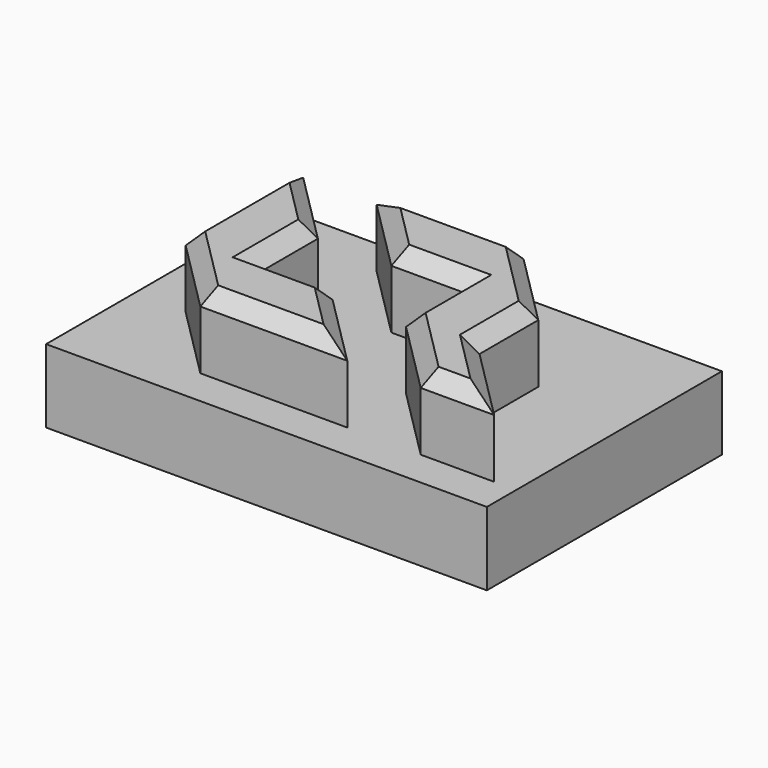
from build123d import *

# Parameters (mm, degrees)
F0_W     = 76.2
F0_H     = 50.8
F1_DEPTH = 25.4
F2_W     = 76.2
F2_H     = 50.8
F3_DEPTH = 12.7
F5_DEPTH = 12.7
F6_SIZE  = 2.54


with BuildPart() as f1:
    # F0 (on Top) → F1 (new body)
    with BuildSketch(Plane.XY):
        with Locations((38.1, 25.4)):
            Rectangle(F0_W, F0_H)
    extrude(amount=F1_DEPTH)

    # F2 (on face) → F3 (cut)
    with BuildSketch(Plane.XY.offset(25.4)):
        with Locations((38.1, 25.4)):
            Rectangle(F2_W, F2_H)
    extrude(amount=-F3_DEPTH, mode=Mode.SUBTRACT)

    # F4 (on face) → F5 (join)
    with BuildSketch(Plane.XY.offset(12.7)):
        Polygon((21.59, 31.75), (8.89, 44.45), (8.89, 31.75), (8.89, 19.05), (21.59, 6.35), (34.29, 6.35), (46.99, 6.35), (34.29, 19.05), (21.59, 19.05), align=None)
        Polygon((46.99, 19.05), (59.69, 6.35), (72.39, 6.35), (59.69, 19.05), (59.69, 31.75), (46.99, 44.45), (34.29, 44.45), (21.59, 44.45), (34.29, 31.75), (46.99, 31.75), align=None)
    extrude(amount=F5_DEPTH)

    # F6
    f6_edges = [f1.edges().sort_by_distance(p)[0] for p in [
        (15.24, 12.7, 25.4),
        (8.89, 31.75, 25.4),
        (15.24, 38.1, 25.4),
        (21.59, 25.4, 25.4),
        (27.94, 19.05, 25.4),
        (40.64, 12.7, 25.4),
        (34.29, 6.35, 25.4),
        (53.34, 12.7, 25.4),
        (66.04, 12.7, 25.4),
        (66.04, 6.35, 25.4),
        (46.99, 25.4, 25.4),
        (53.34, 38.1, 25.4),
        (27.94, 38.1, 25.4),
        (34.29, 44.45, 25.4),
        (40.64, 31.75, 25.4),
        (59.69, 25.4, 25.4),
    ]]
    chamfer(f6_edges, length=F6_SIZE)


solid = f1.part
